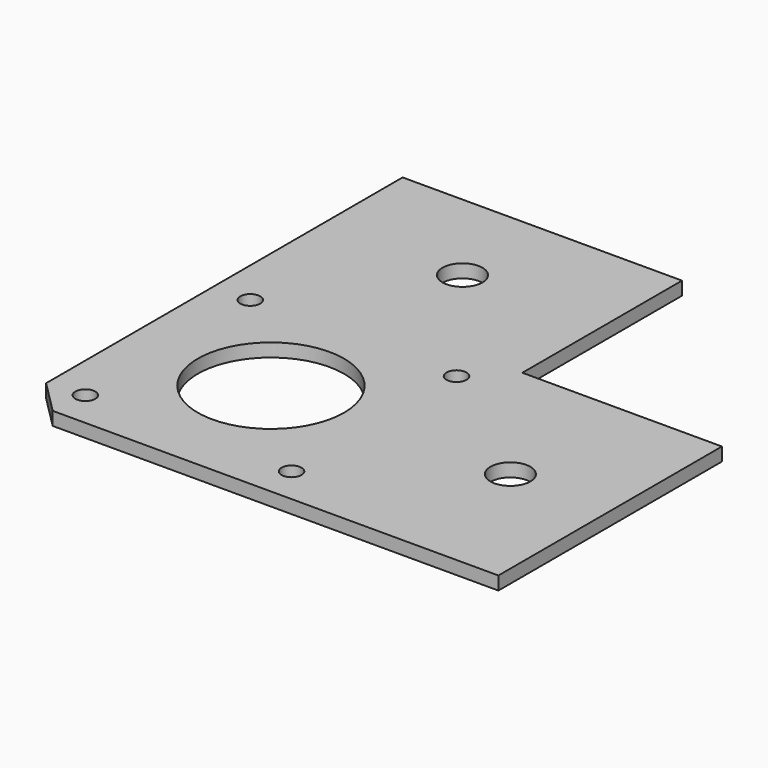
from build123d import *

# Parameters (mm, degrees)
F0_R     = 1.5
F0_R_2   = 11
F0_R_3   = 3
F1_DEPTH = 2
F2_SIZE  = 5


with BuildPart() as f1:
    # F0 (on Top) → F1 (new body)
    with BuildSketch(Plane.XY):
        Polygon((-36, -37.666667), (36, -37.666667), (36, 4.333333), (6, 4.333333), (6, 34.333333), (-36, 34.333333), align=None)
        with Locations((-30.5, -32.166667)):
            Circle(F0_R, mode=Mode.SUBTRACT)
        with Locations((-15, -16.666667)):
            Circle(F0_R_2, mode=Mode.SUBTRACT)
        with Locations((0.5, -32.166667)):
            Circle(F0_R, mode=Mode.SUBTRACT)
        with Locations((21, -16.666667)):
            Circle(F0_R_3, mode=Mode.SUBTRACT)
        with Locations((-30.5, -1.166667)):
            Circle(F0_R, mode=Mode.SUBTRACT)
        with Locations((-15, 19.333333)):
            Circle(F0_R_3, mode=Mode.SUBTRACT)
        with Locations((0.5, -1.166667)):
            Circle(F0_R, mode=Mode.SUBTRACT)
    extrude(amount=F1_DEPTH)

    # F2
    f2_edges = [f1.edges().sort_by_distance(p)[0] for p in [
        (-36, -37.666667, 1),
    ]]
    chamfer(f2_edges, length=F2_SIZE)


solid = f1.part
